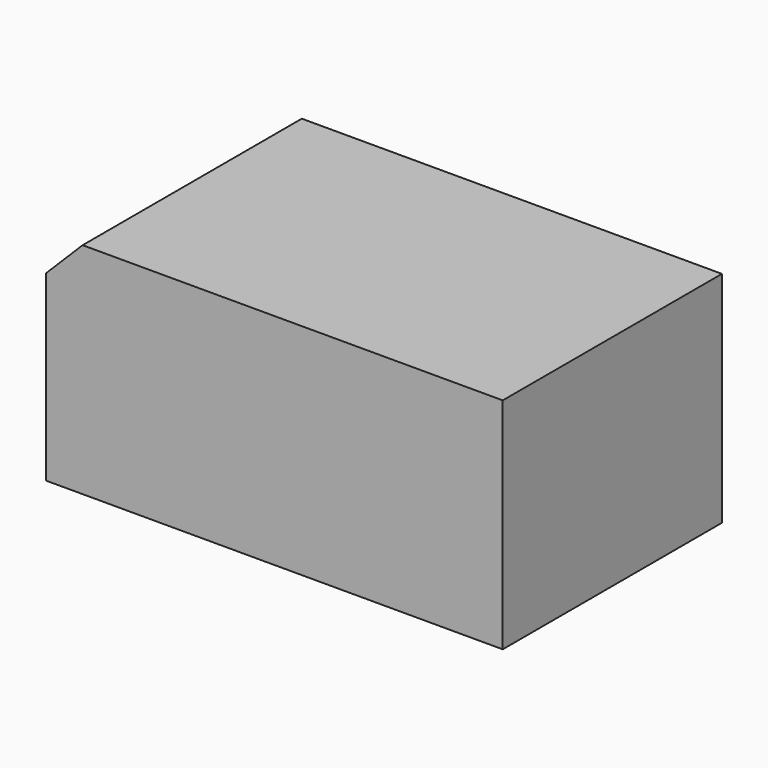
from build123d import *

# Parameters (mm, degrees)
SKETCH_W     = 2.5
SKETCH_H     = 1.5
PAD_DEPTH    = 1.2
CHAMFER_SIZE = 0.2
SKETCH001_W  = 0.25
SKETCH001_H  = 0.8
PAD001_DEPTH = 0.7


with BuildPart() as body:
    # Sketch → Pad (new body)
    with BuildSketch(Plane.XY):
        Rectangle(SKETCH_W, SKETCH_H)
    extrude(amount=PAD_DEPTH)

    # Chamfer
    chamfer_edges = [body.edges().sort_by_distance(p)[0] for p in [
        (-1.25, 0, 1.2),
    ]]
    chamfer(chamfer_edges, length=CHAMFER_SIZE)


with BuildPart() as body001:
    # Sketch001 → Pad001 (new body)
    with BuildSketch(Plane.XY):
        with Locations((1.375, 0)):
            Rectangle(SKETCH001_W, SKETCH001_H)
    extrude(amount=PAD001_DEPTH)


with BuildPart() as part_mirroring:
    # Part__Mirroring: instance of Body001
    add(body001.part.mirror(Plane(origin=(0, 0, 0), x_dir=(0, -1, 0), z_dir=(1, 0, 0))))


solid = Compound([body.part, part_mirroring.part])
